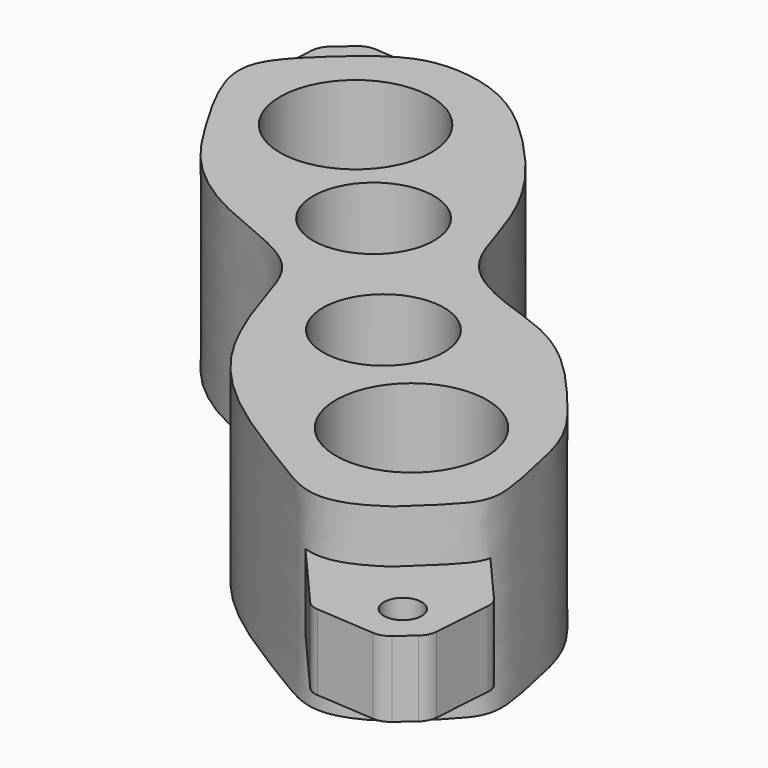
from build123d import *

# Parameters (mm, degrees)
CYLINDER034_R             = 8
CYLINDER034_DEPTH         = 36
CYLINDER035_R             = 8
CYLINDER035_DEPTH         = 36
CYLINDER036_R             = 10
CYLINDER036_DEPTH         = 36
CYLINDER033_R             = 10
CYLINDER033_DEPTH         = 36
CYLINDER031_R             = 2.5
CYLINDER031_DEPTH         = 26
BOX011_W                  = 19
BOX011_H                  = 21
BOX011_DEPTH              = 10
CHAMFER002_SIZE           = 7
FILLET002_R               = 2.7
FILLET003_R               = 2.3
EXTRUDE001_DEPTH          = 25
CYLINDER032_R             = 2.5
CYLINDER032_DEPTH         = 26
BOX012_W                  = 19
BOX012_H                  = 21
BOX012_DEPTH              = 10
CHAMFER003_SIZE           = 7
FILLET005_R               = 2.7
FILLET004_R               = 2.3
FILLET004_PLACEMENT_ANGLE = 180
CUT033_PLACEMENT_ANGLE    = 221


with BuildPart() as cylinder034:
    # Cylinder034 → Cylinder034 (new body)
    with BuildSketch(Plane(origin=(15, -126, -17), x_dir=(1, 0, 0), z_dir=(0, 0, 1))):
        Circle(CYLINDER034_R)
    extrude(amount=CYLINDER034_DEPTH)


with BuildPart() as cylinder035:
    # Cylinder035 → Cylinder035 (new body)
    with BuildSketch(Plane(origin=(15, -151, -17), x_dir=(1, 0, 0), z_dir=(0, 0, 1))):
        Circle(CYLINDER035_R)
    extrude(amount=CYLINDER035_DEPTH)


with BuildPart() as cylinder036:
    # Cylinder036 → Cylinder036 (new body)
    with BuildSketch(Plane(origin=(16, -172, -17), x_dir=(1, 0, 0), z_dir=(0, 0, 1))):
        Circle(CYLINDER036_R)
    extrude(amount=CYLINDER036_DEPTH)


with BuildPart() as cylinder033:
    # Cylinder033 → Cylinder033 (new body)
    with BuildSketch(Plane(origin=(13, -104, -17), x_dir=(1, 0, 0), z_dir=(0, 0, 1))):
        Circle(CYLINDER033_R)
    extrude(amount=CYLINDER033_DEPTH)


with BuildPart() as cylinder031:
    # Cylinder031 → Cylinder031 (new body)
    with BuildSketch(Plane(origin=(15, -77, -13), x_dir=(1, 0, 0), z_dir=(0, 0, 1))):
        Circle(CYLINDER031_R)
    extrude(amount=CYLINDER031_DEPTH)


with BuildPart() as fillet003:
    # Box011 → Box011 (new body)
    with BuildSketch(Plane(origin=(6, -92, -5), x_dir=(1, 0, 0), z_dir=(0, 0, 1))):
        with Locations((9.5, 10.5)):
            Rectangle(BOX011_W, BOX011_H)
    extrude(amount=BOX011_DEPTH)

    # Chamfer002
    chamfer002_edges = [fillet003.edges().sort_by_distance(p)[0] for p in [
        (6, -71, 0),
        (25, -71, 0),
    ]]
    chamfer(chamfer002_edges, length=CHAMFER002_SIZE)

    # Fillet002
    fillet002_edges = [fillet003.edges().sort_by_distance(p)[0] for p in [
        (13, -71, 0),
        (18, -71, 0),
    ]]
    fillet(fillet002_edges, radius=FILLET002_R)


with BuildPart() as fillet003_1:
    # Fillet002 placement: moved
    add(fillet003.part.moved(Location((-0.5, 0, 0))))

    # Cut028: cut Cylinder031
    add(cylinder031.part, mode=Mode.SUBTRACT)

    # Fillet003
    fillet003_edges = [fillet003_1.edges().sort_by_distance(p)[0] for p in [
        (5.5, -78, 0),
        (24.5, -78, 0),
    ]]
    fillet(fillet003_edges, radius=FILLET003_R)


with BuildPart() as extrude001:
    # Sketch001 → Extrude001 (new body)
    with BuildSketch(Plane.XY):
        with BuildLine():
            add(Edge.make_bspline(
                [(15.628, -86.5245), (23.8291, -87.3446), (25.9614, -94.3976), (30.8821, -109.16), (31.7022, -121.297), (27.6017, -132.943), (23.8291, -140.16), (26.4535, -147.049), (31.0461, -155.414), (32.8504, -164.435), (31.3742, -173.129), (29.898, -180.838), (26.9456, -186.743), (19.0724, -187.399), (12.0195, -187.399), (6.27866, -185.758), (-0.282263, -177.885), (-1.43043, -165.256), (-0.938356, -156.234), (1.52199, -148.361), (5.78659, -140.16), (2.67015, -131.959), (-1.59445, -125.562), (-3.3987, -118.345), (-3.3987, -109.488), (-3.07065, -101.779), (0.045788, -95.8738), (2.99821, -90.6251), (5.45855, -87.3446), (8.90302, -86.6885), (15.628, -86.5245)],
                knots=[0, 0, 0, 0, 0.035714, 0.071429, 0.107143, 0.142857, 0.178571, 0.214286, 0.25, 0.285714, 0.321429, 0.357143, 0.392857, 0.428571, 0.464286, 0.5, 0.535714, 0.571429, 0.607143, 0.642857, 0.678571, 0.714286, 0.75, 0.785714, 0.821429, 0.857143, 0.892857, 0.928571, 0.964286, 1, 1, 1, 1], degree=3))
        make_face()
    extrude(amount=EXTRUDE001_DEPTH)


with BuildPart() as extrude001_1:
    # Extrude001 placement: moved
    add(extrude001.part.moved(Location((0, 0, -13))))


with BuildPart() as cylinder032:
    # Cylinder032 → Cylinder032 (new body)
    with BuildSketch(Plane(origin=(15, -77, -13), x_dir=(1, 0, 0), z_dir=(0, 0, 1))):
        Circle(CYLINDER032_R)
    extrude(amount=CYLINDER032_DEPTH)


with BuildPart() as cut033:
    # Box012 → Box012 (new body)
    with BuildSketch(Plane(origin=(6, -92, -5), x_dir=(1, 0, 0), z_dir=(0, 0, 1))):
        with Locations((9.5, 10.5)):
            Rectangle(BOX012_W, BOX012_H)
    extrude(amount=BOX012_DEPTH)

    # Chamfer003
    chamfer003_edges = [cut033.edges().sort_by_distance(p)[0] for p in [
        (6, -71, 0),
        (25, -71, 0),
    ]]
    chamfer(chamfer003_edges, length=CHAMFER003_SIZE)

    # Fillet005
    fillet005_edges = [cut033.edges().sort_by_distance(p)[0] for p in [
        (13, -71, 0),
        (18, -71, 0),
    ]]
    fillet(fillet005_edges, radius=FILLET005_R)


with BuildPart() as cut033_1:
    # Fillet005 placement: moved
    add(cut033.part.moved(Location((-0.5, 0, 0))))

    # Cut029: cut Cylinder032
    add(cylinder032.part, mode=Mode.SUBTRACT)

    # Fillet004
    fillet004_edges = [cut033_1.edges().sort_by_distance(p)[0] for p in [
        (5.5, -78, 0),
        (24.5, -78, 0),
    ]]
    fillet(fillet004_edges, radius=FILLET004_R)


with BuildPart() as cut033_2:
    # Fillet004 placement: moved
    add(cut033_1.part.moved(Location((31, -274, 0))).rotate(Axis((31, -274, 0), (0, 0, 1)), FILLET004_PLACEMENT_ANGLE))

    # Fusion015: union Fillet003, Extrude001
    add(fillet003_1.part)
    add(extrude001_1.part)

    # Cut030: cut Cylinder033
    add(cylinder033.part, mode=Mode.SUBTRACT)

    # Cut031: cut Cylinder036
    add(cylinder036.part, mode=Mode.SUBTRACT)

    # Cut032: cut Cylinder035
    add(cylinder035.part, mode=Mode.SUBTRACT)

    # Cut033: cut Cylinder034
    add(cylinder034.part, mode=Mode.SUBTRACT)


with BuildPart() as cut033_3:
    # Cut033 placement: moved
    add(cut033_2.part.moved(Location((169, -172, 0))).rotate(Axis((169, -172, 0), (0, 0, 1)), CUT033_PLACEMENT_ANGLE))


solid = cut033_3.part
